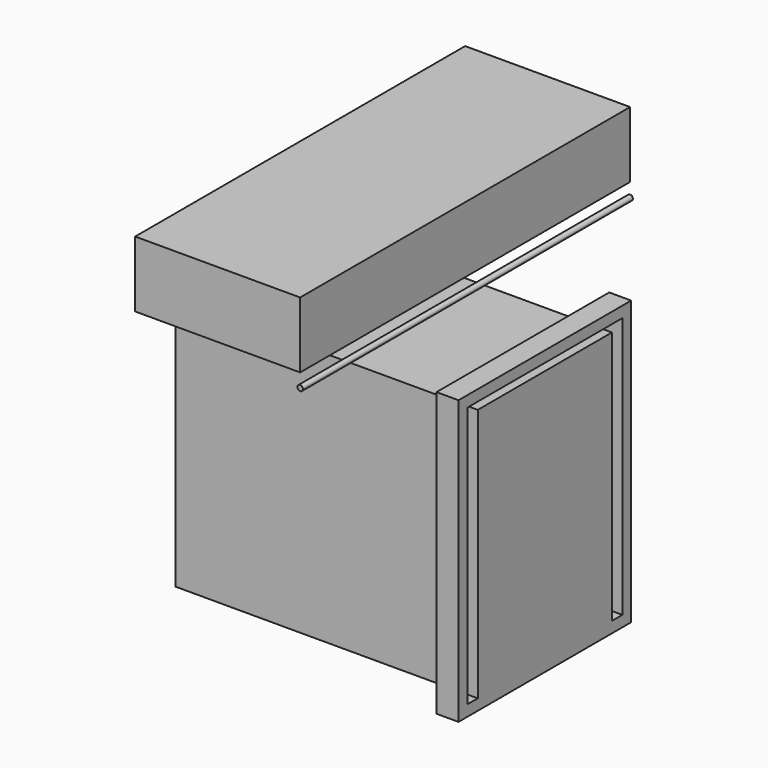
from build123d import *

# Parameters (mm, degrees)
F0_W           = 1993.9
F0_H           = 2616.2
F0_W_2         = 1790.7
F0_H_2         = 2413
F1_DEPTH       = 203.2
F3_W           = 3810
F3_H           = 609.6
F4_DEPTH       = 1524
F5_R           = 25.4
F6_DEPTH       = 1905
F6_DEPTH_BACK  = 1905
F7_W           = 762
F7_H           = 101.6
F8_DEPTH       = 609.6
F8_DEPTH_BACK  = 609.6
F9_W           = 2794
F9_H           = 2345.69
F10_DEPTH      = 774.7
F10_DEPTH_BACK = 774.7


with BuildPart() as f1:
    # F0 (on Right) → F1 (new body)
    with BuildSketch(Plane.YZ):
        Rectangle(F0_W, F0_H)
        Rectangle(F0_W_2, F0_H_2, mode=Mode.SUBTRACT)
    extrude(amount=F1_DEPTH)

    # F9 (on Front) → F10 (join, two sides)
    with BuildSketch(Plane.XZ) as f10_sk:
        with Locations((-1193.8, -33.655)):
            Rectangle(F9_W, F9_H)
    extrude(amount=F10_DEPTH)
    extrude(f10_sk.sketch, amount=-F10_DEPTH_BACK)


with BuildPart() as f4:
    # F3 (on offset) → F4 (new body)
    with BuildSketch(Plane(origin=(-533.4, 0, 0), x_dir=(0, -1, 0), z_dir=(-1, 0, 0))):
        with Locations((0, 1968.5)):
            Rectangle(F3_W, F3_H)
    extrude(amount=F4_DEPTH)


with BuildPart() as f6:
    # F5 (on Front) → F6 (new body, two sides)
    with BuildSketch(Plane.XZ) as f6_sk:
        with Locations((-533.4, 1536.7)):
            Circle(F5_R)
    extrude(amount=F6_DEPTH)
    extrude(f6_sk.sketch, amount=-F6_DEPTH_BACK)


with BuildPart() as f8:
    # F7 (on Front) → F8 (new body, two sides)
    with BuildSketch(Plane.XZ) as f8_sk:
        with Locations((-1625.6, 1231.9)):
            Rectangle(F7_W, F7_H)
    extrude(amount=F8_DEPTH)
    extrude(f8_sk.sketch, amount=-F8_DEPTH_BACK)


solid = Compound([f1.part, f4.part, f6.part, f8.part])
